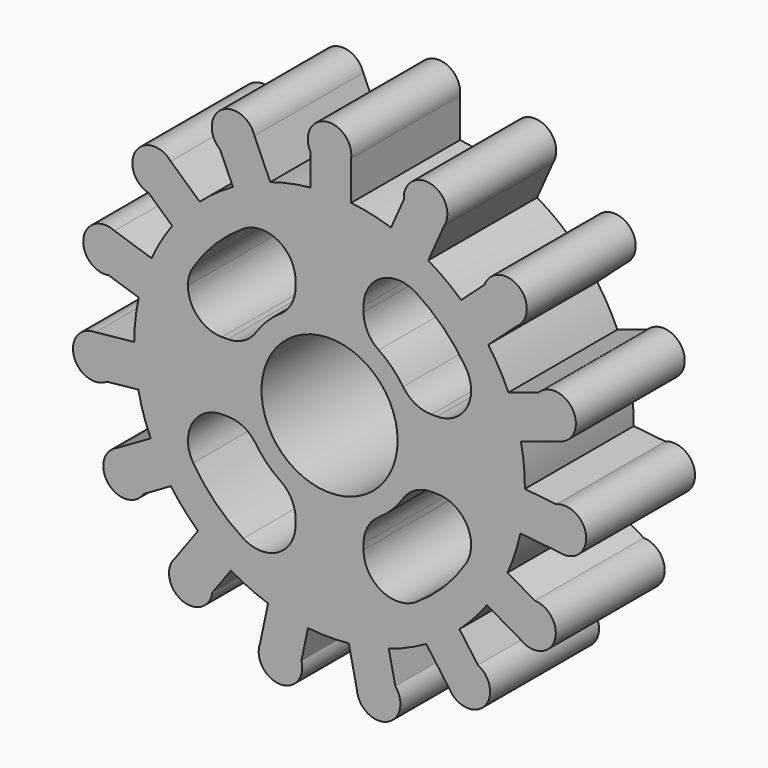
from build123d import *

# Parameters (mm, degrees)
F0_R     = 5
F1_DEPTH = 5
F3_DEPTH = 10


with BuildPart() as f1:
    # F0 (on Front) → F1 (new body, symmetric)
    with BuildSketch(Plane.XZ):
        with BuildLine():
            Line((-8.043049, 14.587102), (-7.100528, 12.470164))
            ThreePointArc((-7.100528, 12.470164), (-8.365104, 11.659654), (-9.538033, 10.721401))
            Line((-9.538033, 10.721401), (-11.668586, 12.63976))
            ThreePointArc((-11.668586, 12.63976), (-14.247489, 12.452749), (-13.2808, 10.054578))
            Line((-13.2808, 10.054578), (-11.558728, 8.504017))
            ThreePointArc((-11.558728, 8.504017), (-12.384311, 7.24923), (-13.074213, 5.91502))
            Line((-13.074213, 5.91502), (-15.800837, 6.800954))
            ThreePointArc((-15.800837, 6.800954), (-18.080718, 5.581177), (-16.22218, 3.783526))
            Line((-16.22218, 3.783526), (-14.018319, 3.067448))
            ThreePointArc((-14.018319, 3.067448), (-14.262159, 1.585348), (-14.349743, 0.085878))
            Line((-14.349743, 0.085878), (-17.20098, -0.213799))
            ThreePointArc((-17.20098, -0.213799), (-18.787627, -2.255432), (-16.358597, -3.141732))
            Line((-16.358597, -3.141732), (-14.054015, -2.899511))
            ThreePointArc((-14.054015, -2.899511), (-13.673949, -4.352656), (-13.144072, -5.758113))
            Line((-13.144072, -5.758113), (-15.626917, -7.191584))
            ThreePointArc((-15.626917, -7.191584), (-16.245984, -9.702056), (-13.666465, -9.523756))
            Line((-13.666465, -9.523756), (-11.659644, -8.365118))
            ThreePointArc((-11.659644, -8.365118), (-10.72139, -9.538045), (-9.665672, -10.606474))
            Line((-9.665672, -10.606474), (-11.350818, -12.925879))
            ThreePointArc((-11.350818, -12.925879), (-10.895264, -15.471106), (-8.611276, -14.259036))
            Line((-8.611276, -14.259036), (-7.249215, -12.38432))
            ThreePointArc((-7.249215, -12.38432), (-5.915005, -13.07422), (-4.515989, -13.620879))
            Line((-4.515989, -13.620879), (-5.11206, -16.425172))
            ThreePointArc((-5.11206, -16.425172), (-3.660653, -18.565062), (-2.06712, -16.528799))
            Line((-2.06712, -16.528799), (-1.585331, -14.262161))
            ThreePointArc((-1.585331, -14.262161), (-0.085861, -14.349743), (1.414549, -14.28011))
            Line((1.414549, -14.28011), (2.01062, -17.084403))
            ThreePointArc((2.01062, -17.084403), (4.206918, -18.448949), (4.83446, -15.940583))
            Line((4.83446, -15.940583), (4.352671, -13.673944))
            ThreePointArc((4.352671, -13.673944), (5.758128, -13.144066), (7.100499, -12.470181))
            Line((7.100499, -12.470181), (8.785646, -14.789586))
            ThreePointArc((8.785646, -14.789586), (11.347075, -15.142846), (10.900118, -12.596095))
            Line((10.900118, -12.596095), (9.538057, -10.721379))
            ThreePointArc((9.538057, -10.721379), (10.606485, -9.66566), (11.558708, -8.504044))
            Line((11.558708, -8.504044), (14.041553, -9.937515))
            ThreePointArc((14.041553, -9.937515), (16.525219, -9.218407), (15.081047, -7.073628))
            Line((15.081047, -7.073628), (13.074227, -5.914989))
            ThreePointArc((13.074227, -5.914989), (13.620884, -4.515973), (14.018312, -3.067481))
            Line((14.018312, -3.067481), (16.869549, -3.367158))
            ThreePointArc((16.869549, -3.367158), (18.846003, -1.700022), (16.654325, -0.328066))
            Line((16.654325, -0.328066), (14.349743, -0.085845))
            ThreePointArc((14.349743, -0.085845), (14.280109, 1.414566), (14.054022, 2.899478))
            Line((14.054022, 2.899478), (16.780646, 3.785412))
            ThreePointArc((16.780646, 3.785412), (17.908141, 6.112313), (15.34792, 6.474221))
            Line((15.34792, 6.474221), (13.144059, 5.758143))
            ThreePointArc((13.144059, 5.758143), (12.470173, 7.100514), (11.659664, 8.365091))
            Line((11.659664, 8.365091), (13.790217, 10.28345))
            ThreePointArc((13.790217, 10.28345), (13.8738, 12.867773), (11.387719, 12.157057))
            Line((11.387719, 12.157057), (9.665647, 10.606496))
            ThreePointArc((9.665647, 10.606496), (8.504031, 11.558718), (7.249244, 12.384303))
            Line((7.249244, 12.384303), (8.415335, 15.003385))
            ThreePointArc((8.415335, 15.003385), (7.440552, 17.398278), (5.458479, 15.737827))
            Line((5.458479, 15.737827), (4.515958, 13.620889))
            ThreePointArc((4.515958, 13.620889), (3.067464, 14.018315), (1.585364, 14.262157))
            Line((1.585364, 14.262157), (1.585364, 17.129099))
            ThreePointArc((1.585364, 17.129099), (-0.279235, 18.920463), (-1.414582, 16.597383))
            Line((-1.414582, 16.597383), (-1.414582, 14.280107))
            ThreePointArc((-1.414582, 14.280107), (-2.899494, 14.054018), (-4.35264, 13.673954))
            Line((-4.35264, 13.673954), (-5.51873, 16.293037))
            ThreePointArc((-5.51873, 16.293037), (-7.950739, 17.171128), (-8.043049, 14.587102))
        make_face()
        Circle(F0_R, mode=Mode.SUBTRACT)
    extrude(amount=F1_DEPTH, both=True)

    # F2 (on face) → F3 (cut)
    with BuildSketch(Plane.XZ.offset(5)):
        with BuildLine():
            ThreePointArc((-6.336898, 10.013302), (-8.379215, 8.379215), (-10.013302, 6.336898))
            ThreePointArc((-10.013302, 6.336898), (-10.301966, 5.695961), (-10.400791, 5))
            Line((-10.400791, 5), (-4.153312, 5))
            ThreePointArc((-4.153312, 5), (-3.887479, 5.209367), (-3.611111, 5.404616))
            ThreePointArc((-3.611111, 5.404616), (-2.795207, 6.304803), (-2.5, 7.483315))
            Line((-2.5, 7.483315), (-2.5, 7.900791))
            ThreePointArc((-2.5, 7.900791), (-3.794232, 10.090796), (-6.336898, 10.013302))
        make_face()
        with BuildLine():
            Line((-4.153312, 5), (-10.400791, 5))
            ThreePointArc((-10.400791, 5), (-9.668558, 3.232233), (-7.900791, 2.5))
            Line((-7.900791, 2.5), (-7.483315, 2.5))
            ThreePointArc((-7.483315, 2.5), (-6.304803, 2.795207), (-5.404616, 3.611111))
            ThreePointArc((-5.404616, 3.611111), (-4.829156, 4.350776), (-4.153312, 5))
        make_face()
        with BuildLine():
            ThreePointArc((6.336898, 10.013302), (3.794232, 10.090796), (2.5, 7.900791))
            Line((2.5, 7.900791), (2.5, 7.483315))
            ThreePointArc((2.5, 7.483315), (2.795207, 6.304803), (3.611111, 5.404616))
            ThreePointArc((3.611111, 5.404616), (4.596194, 4.596194), (5.404616, 3.611111))
            ThreePointArc((5.404616, 3.611111), (6.304803, 2.795207), (7.483315, 2.5))
            Line((7.483315, 2.5), (7.900791, 2.5))
            ThreePointArc((7.900791, 2.5), (10.090796, 3.794232), (10.013302, 6.336898))
            ThreePointArc((10.013302, 6.336898), (8.379215, 8.379215), (6.336898, 10.013302))
        make_face()
        with BuildLine():
            Line((-7.483315, -2.5), (-7.900791, -2.5))
            ThreePointArc((-7.900791, -2.5), (-10.090796, -3.794232), (-10.013302, -6.336898))
            ThreePointArc((-10.013302, -6.336898), (-8.379215, -8.379215), (-6.336898, -10.013302))
            ThreePointArc((-6.336898, -10.013302), (-3.794232, -10.090796), (-2.5, -7.900791))
            Line((-2.5, -7.900791), (-2.5, -7.483315))
            ThreePointArc((-2.5, -7.483315), (-2.795207, -6.304803), (-3.611111, -5.404616))
            ThreePointArc((-3.611111, -5.404616), (-4.596194, -4.596194), (-5.404616, -3.611111))
            ThreePointArc((-5.404616, -3.611111), (-6.304803, -2.795207), (-7.483315, -2.5))
        make_face()
        with BuildLine():
            ThreePointArc((5.404616, -3.611111), (4.596194, -4.596194), (3.611111, -5.404616))
            ThreePointArc((3.611111, -5.404616), (2.795207, -6.304803), (2.5, -7.483315))
            Line((2.5, -7.483315), (2.5, -7.900791))
            ThreePointArc((2.5, -7.900791), (3.794232, -10.090796), (6.336898, -10.013302))
            ThreePointArc((6.336898, -10.013302), (8.379215, -8.379215), (10.013302, -6.336898))
            ThreePointArc((10.013302, -6.336898), (10.090796, -3.794232), (7.900791, -2.5))
            Line((7.900791, -2.5), (7.483315, -2.5))
            ThreePointArc((7.483315, -2.5), (6.304803, -2.795207), (5.404616, -3.611111))
        make_face()
    extrude(amount=-F3_DEPTH, mode=Mode.SUBTRACT)


solid = f1.part
